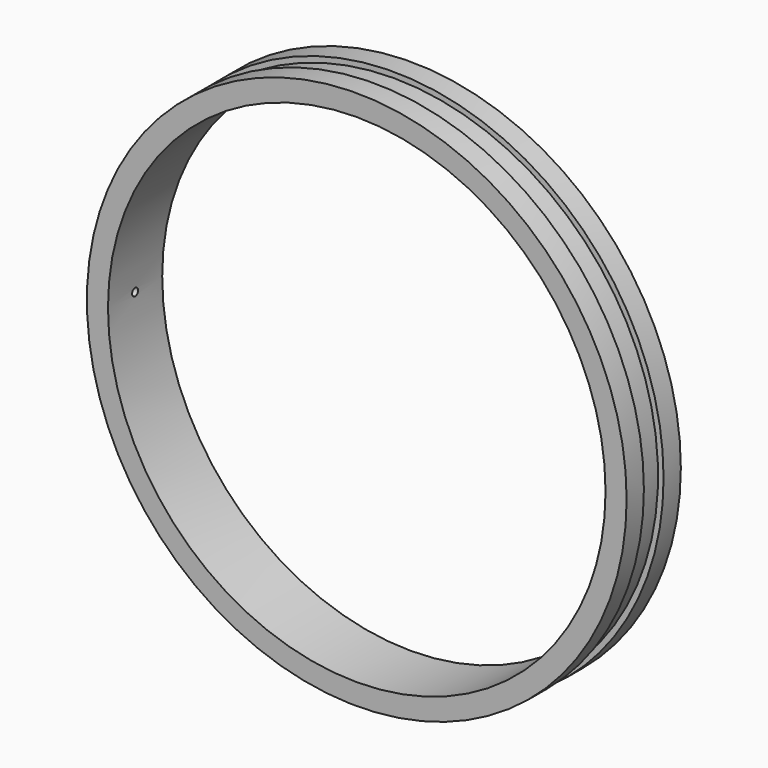
from build123d import *

# Parameters (mm, degrees)
F0_R     = 107.5
F0_R_2   = 99.1
F1_DEPTH = 27
F2_W     = 23.0813684594
F2_H     = 9.8
F4_R     = 1.5
F5_DEPTH = 124.5


with BuildPart() as f1:
    # F0 (on Front) → F1 (new body)
    with BuildSketch(Plane.XZ):
        Circle(F0_R)
        Circle(F0_R_2, mode=Mode.SUBTRACT)
    extrude(amount=F1_DEPTH)

    # F3: sweep along a path in F3_path
    with BuildLine(Plane(origin=(107.5, -27, 0), x_dir=(0, 0, -1), z_dir=(0, 1, 0))) as f3_path:
        CenterArc((0, 107.5), 107.5, 0, 360)
    # F2 (on Top) → F3 (sweep, cut)
    with BuildSketch(Plane.XY):
        with Locations((116.8393076604, -13.4999998838)):
            Rectangle(F2_W, F2_H)
    sweep(path=f3_path.line, mode=Mode.SUBTRACT)

    # F4 (on Right) → F5 (cut)
    with BuildSketch(Plane.YZ):
        with Locations((-13.4999938309, 0)):
            Circle(F4_R)
    extrude(amount=-F5_DEPTH, mode=Mode.SUBTRACT)


solid = f1.part
